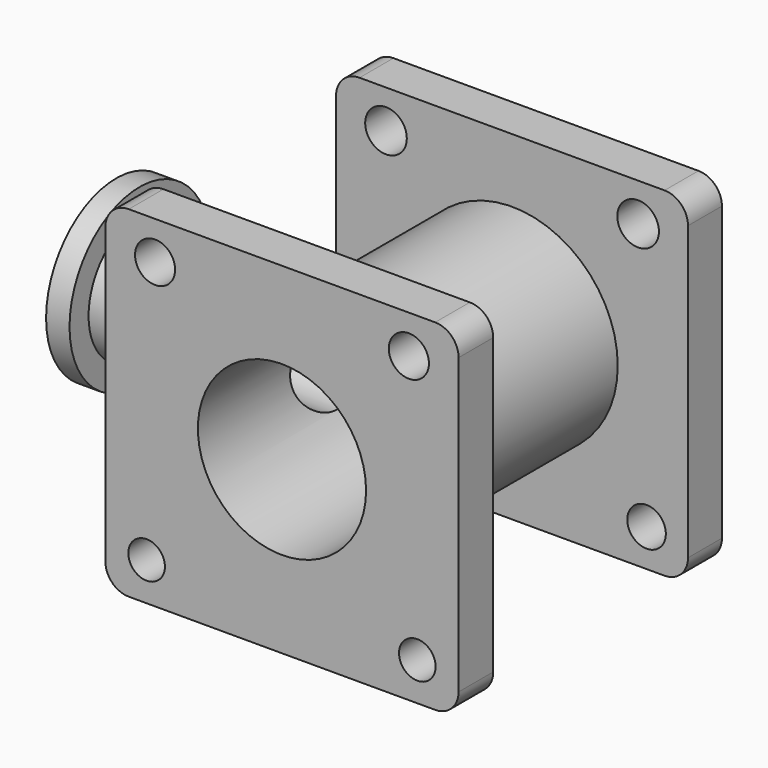
from build123d import *

# Parameters (mm, degrees)
F0_W      = 76.252372
F0_H      = 73.50289
F0_R      = 4.179859
F0_R_2    = 4.50856
F1_DEPTH  = 9.18545
F2_R      = 5.08
F3_R      = 22.901555
F4_DEPTH  = 62.1159
F5_W      = 76.538578
F5_H      = 73.920212
F5_R      = 3.965364
F5_R_2    = 4.345385
F6_DEPTH  = 9.38346
F7_R      = 5.08
F8_R      = 18.221754
F9_DEPTH  = 71.50036
F10_R     = 13.828143
F11_DEPTH = 58.42
F12_DEPTH = 71.3616
F13_DEPTH = 71.50036
F15_R     = 18.988261
F16_DEPTH = 5.08
F14_R     = 9.494903
F17_DEPTH = 57.11392


with BuildPart() as f1:
    # F0 (on Front) → F1 (new body)
    with BuildSketch(Plane.XZ):
        Rectangle(F0_W, F0_H)
        with Locations((-29.144537, -28.686289)):
            Circle(F0_R, mode=Mode.SUBTRACT)
        with Locations((29.144537, -28.686289)):
            Circle(F0_R, mode=Mode.SUBTRACT)
        with Locations((-27.311549, 28.50299)):
            Circle(F0_R_2, mode=Mode.SUBTRACT)
        with Locations((27.311549, 28.50299)):
            Circle(F0_R_2, mode=Mode.SUBTRACT)
    extrude(amount=F1_DEPTH)

    # F2
    f2_edges = [f1.edges().sort_by_distance(p)[0] for p in [
        (38.126186, -4.592725, 36.751445),
        (-38.126186, -4.592725, 36.751445),
        (-38.126186, -4.592725, -36.751445),
        (38.126186, -4.592725, -36.751445),
    ]]
    fillet(f2_edges, radius=F2_R)

    # F3 (on Front) → F4 (join)
    with BuildSketch(Plane.XZ):
        Circle(F3_R)
    extrude(amount=F4_DEPTH)

    # F5 (on face) → F6 (join)
    with BuildSketch(Plane.XZ.offset(62.1159)):
        Rectangle(F5_W, F5_H)
        with Locations((-29.327836, -28.686289)):
            Circle(F5_R, mode=Mode.SUBTRACT)
        with Locations((29.327836, -28.686289)):
            Circle(F5_R, mode=Mode.SUBTRACT)
        with Locations((-27.494846, 28.686289)):
            Circle(F5_R_2, mode=Mode.SUBTRACT)
        with Locations((27.494846, 28.686289)):
            Circle(F5_R_2, mode=Mode.SUBTRACT)
    extrude(amount=F6_DEPTH)

    # F7
    f7_edges = [f1.edges().sort_by_distance(p)[0] for p in [
        (38.269289, -66.80763, 36.960106),
        (-38.269289, -66.80763, 36.960106),
        (-38.269289, -66.80763, -36.960106),
        (38.269289, -66.80763, -36.960106),
    ]]
    fillet(f7_edges, radius=F7_R)

    # F8 (on face) → F9 (cut, through all)
    with BuildSketch(Plane.XZ.offset(71.49936)):
        Circle(F8_R)
    extrude(amount=-F9_DEPTH, mode=Mode.SUBTRACT)

    # F10 (on Right) → F11 (join)
    with BuildSketch(Plane.YZ):
        with Locations((-37.026394, 0)):
            Circle(F10_R)
    extrude(amount=-F11_DEPTH)

    # F3 (on Front) → F12 (join)
    with BuildSketch(Plane.XZ):
        Circle(F3_R)
    extrude(amount=F12_DEPTH)

    # F8 (on face) → F13 (cut, through all)
    with BuildSketch(Plane.XZ.offset(71.49936)):
        Circle(F8_R)
    extrude(amount=-F13_DEPTH, mode=Mode.SUBTRACT)

    # F15 (on face) → F16 (join)
    with BuildSketch(Plane(origin=(-58.42, 0, 0), x_dir=(0, -1, 0), z_dir=(-1, 0, 0))):
        with Locations((37.026394, 0)):
            Circle(F15_R)
    extrude(amount=F16_DEPTH)

    # F14 (on face) → F17 (cut, symmetric)
    with BuildSketch(Plane(origin=(-58.42, 0, 0), x_dir=(0, -1, 0), z_dir=(-1, 0, 0))):
        with Locations((37.026394, 0)):
            Circle(F14_R)
    extrude(amount=F17_DEPTH, both=True, mode=Mode.SUBTRACT)


solid = f1.part
